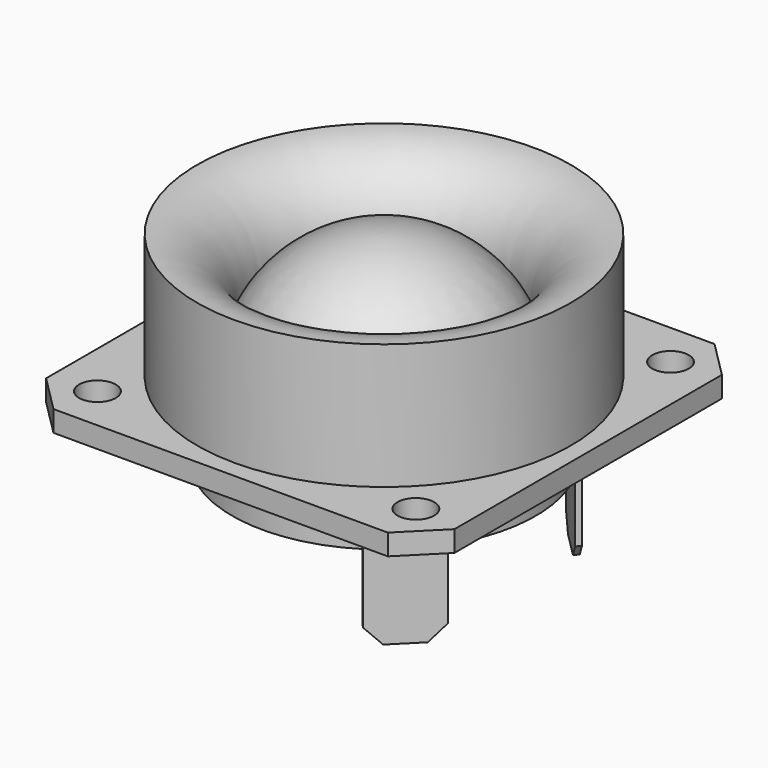
from build123d import *

# Parameters (mm, degrees)
F2_R     = 1.75
F3_DEPTH = 2
F4_R     = 14.5
F5_DEPTH = 5
F7_DEPTH = 12.9375
F8_SIZE  = 1.5


with BuildPart() as f1:
    # F0 (on Right) → F1 (revolve)
    with BuildSketch(Plane.YZ):
        with BuildLine():
            ThreePointArc((-11.1125, -6.7375), (-13.085868, -1.973368), (-17.85, 0))
            Line((-17.85, 0), (-17.85, -14))
            Line((-17.85, -14), (0, -14))
            Line((0, -14), (0, 0))
            ThreePointArc((0, 0), (-6.497722, -1.815933), (-11.1125, -6.7375))
        make_face()
    revolve(axis=Axis((0, 0, 9.125761), (0, 0, 1)))

    # F2 (on face) → F3 (join)
    with BuildSketch(Plane(origin=(0, 0, -14), x_dir=(1, 0, 0), z_dir=(0, 0, -1))):
        Polygon((-15.964466, -19.5), (0, -19.5), (15.964466, -19.5), (19.5, -15.964466), (19.5, 0), (19.5, 15.964466), (15.964466, 19.5), (0, 19.5), (-15.964466, 19.5), (-19.5, 15.964466), (-19.5, 0), (-19.5, -15.964466), align=None)
        with Locations((-15.202796, -15.202796)):
            Circle(F2_R, mode=Mode.SUBTRACT)
        with Locations((15.202796, -15.202796)):
            Circle(F2_R, mode=Mode.SUBTRACT)
        with Locations((-15.202796, 15.202796)):
            Circle(F2_R, mode=Mode.SUBTRACT)
        with Locations((15.202796, 15.202796)):
            Circle(F2_R, mode=Mode.SUBTRACT)
    extrude(amount=-F3_DEPTH)

    # F4 (on face) → F5 (join)
    with BuildSketch(Plane(origin=(0, 0, -14), x_dir=(1, 0, 0), z_dir=(0, 0, -1))):
        Circle(F4_R)
    extrude(amount=F5_DEPTH)

    # F6 (on face) → F7 (join)
    with BuildSketch(Plane(origin=(0, 0, -14), x_dir=(1, 0, 0), z_dir=(0, 0, -1))):
        Polygon((12.498112, 8.007984), (8.007984, 12.498112), (7.648774, 12.138902), (12.138902, 7.648774), align=None)
        Polygon((12.498112, -8.007984), (12.138902, -7.648774), (7.648774, -12.138902), (8.007984, -12.498112), align=None)
    extrude(amount=F7_DEPTH)

    # F8
    f8_edges = [f1.edges().sort_by_distance(p)[0] for p in [
        (12.318507, 7.828379, -26.9375),
        (7.828379, 12.318507, -26.9375),
        (7.828379, -12.318507, -26.9375),
        (12.318507, -7.828379, -26.9375),
    ]]
    chamfer(f8_edges, length=F8_SIZE)


solid = f1.part
